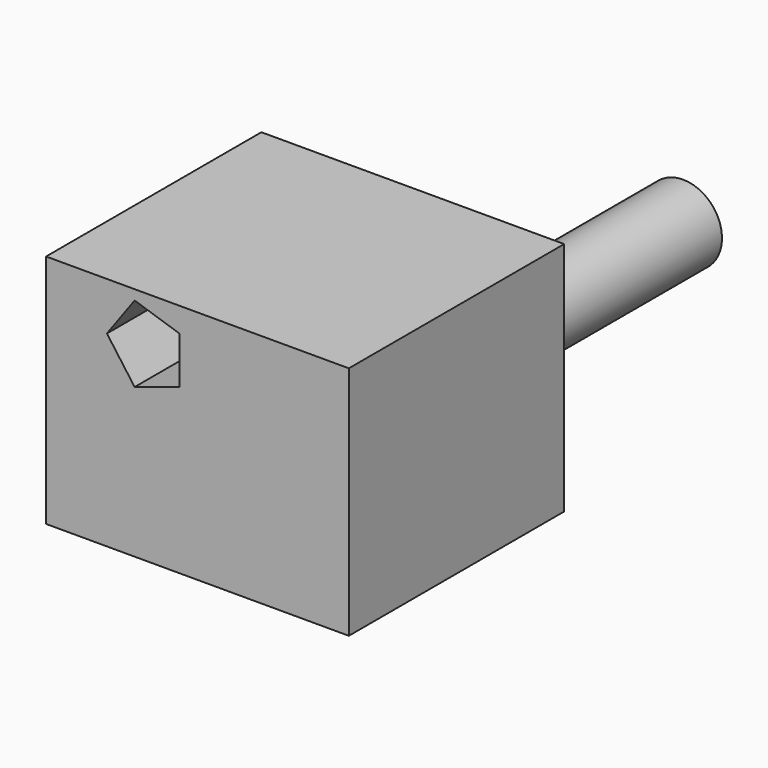
from build123d import *

# Parameters (mm, degrees)
F0_W     = 45
F0_H     = 35
F1_DEPTH = 40
F2_R     = 5.779561
F3_DEPTH = 47.1


with BuildPart() as f1:
    # F0 (on Front) → F1 (new body)
    with BuildSketch(Plane.XZ):
        with Locations((-22.5, 17.5)):
            Rectangle(F0_W, F0_H)
        Polygon((-31.840059, 33.526251), (-25.182663, 31.363132), (-25.182663, 24.363132), (-31.840059, 22.200013), (-35.954556, 27.863132), align=None, mode=Mode.SUBTRACT)
    extrude(amount=F1_DEPTH)

    # F2 (on face) → F3 (join)
    with BuildSketch(Plane(origin=(0, 0, 0), x_dir=(-1, 0, 0), z_dir=(0, 1, 0))):
        with Locations((20, 12)):
            Circle(F2_R)
    extrude(amount=F3_DEPTH)


solid = f1.part
